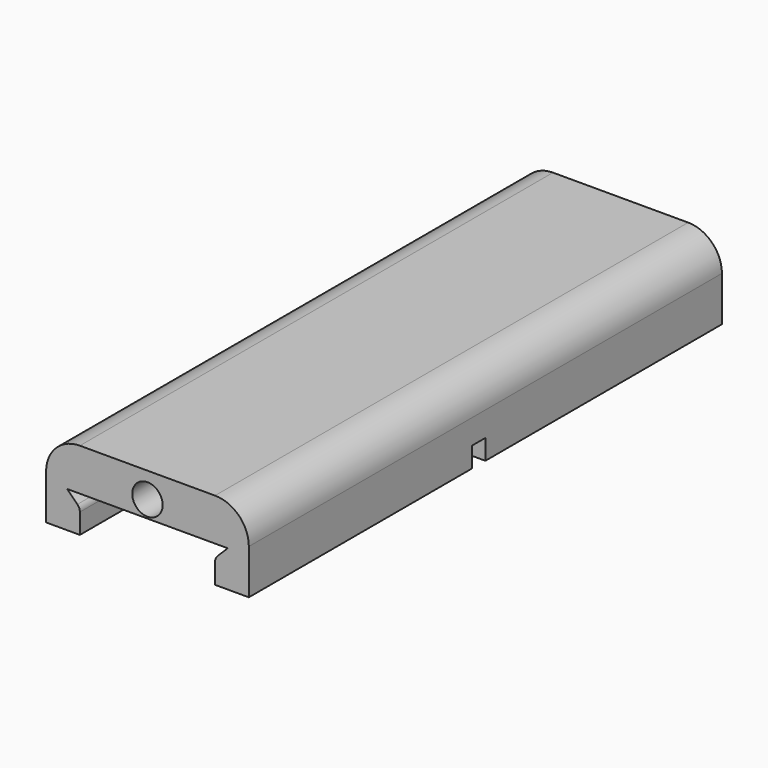
from build123d import *

# Parameters (mm, degrees)
F0_R          = 2.286
F1_DEPTH      = 88.9
F2_R          = 1.27
F3_R          = 5.08
F4_W          = 2.54
F4_H          = 3.0299487758
F5_DEPTH      = 5.081
F5_DEPTH_BACK = 25.401


with BuildPart() as f1:
    # F0 (on Front) → F1 (new body)
    with BuildSketch(Plane.XZ):
        Polygon((-12.065, 0), (0, 0), (12.065, 0), (10.16, -1.905), (10.16, -5.461), (15.24, -5.461), (15.24, 6.35), (0, 6.35), (-15.24, 6.35), (-15.24, -5.461), (-10.16, -5.461), (-10.16, -1.905), align=None)
        with Locations((0, 2.54)):
            Circle(F0_R, mode=Mode.SUBTRACT)
    extrude(amount=F1_DEPTH)

    # F2
    f2_edges = [f1.edges().sort_by_distance(p)[0] for p in [
        (-10.16, -44.45, -1.905),
        (10.16, -44.45, -1.905),
    ]]
    fillet(f2_edges, radius=F2_R)

    # F3
    f3_edges = [f1.edges().sort_by_distance(p)[0] for p in [
        (-15.24, -44.45, 6.35),
        (15.24, -44.45, 6.35),
    ]]
    fillet(f3_edges, radius=F3_R)

    # F4 (on face) → F5 (cut, two sides)
    with BuildSketch(Plane.YZ.offset(-10.16)) as f5_sk:
        with Locations((-45.72, -3.9460256121)):
            Rectangle(F4_W, F4_H)
    extrude(amount=-F5_DEPTH, mode=Mode.SUBTRACT)
    extrude(f5_sk.sketch, amount=F5_DEPTH_BACK, mode=Mode.SUBTRACT)


solid = f1.part
